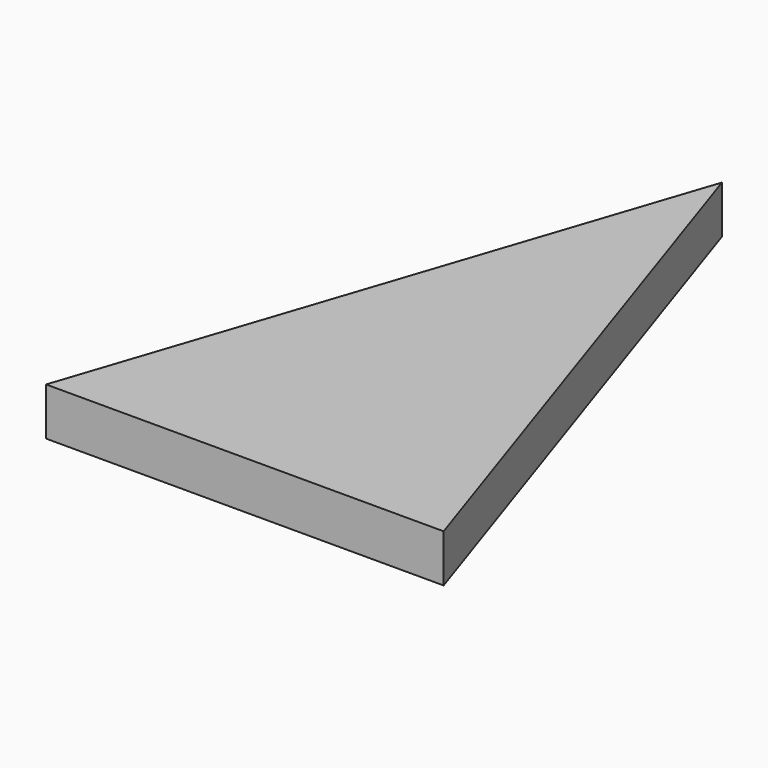
from build123d import *

# Parameters (mm, degrees)
PAD_DEPTH = 120


with BuildPart() as part:
    # Sketch → Pad (new body)
    with BuildSketch(Plane.XY):
        Polygon((0, 0), (500, 0), (0, 1500), (-500, 0), align=None)
    extrude(amount=PAD_DEPTH)


solid = part.part
